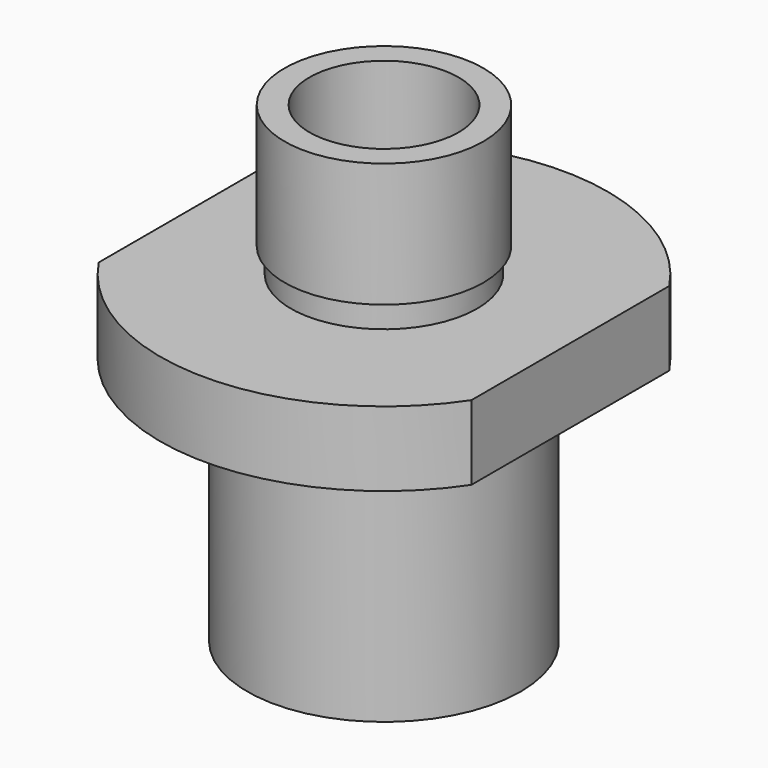
from build123d import *

# Parameters (mm, degrees)
F1_DEPTH  = 6
F2_R      = 14
F2_R_2    = 12
F3_DEPTH  = 1.5
F4_R      = 10.5
F5_DEPTH  = 3
F7_R      = 11
F8_DEPTH  = 17
F10_R     = 7.5
F11_DEPTH = 2
F13_R     = 8
F14_DEPTH = 10
F17_D     = 6.35
F18_R     = 6
F19_DEPTH = 18


with BuildPart() as f1:
    # F0 (on Top) → F1 (new body)
    with BuildSketch(Plane.XY):
        with BuildLine():
            Line((15, -9.949874), (15, 9.949874))
            ThreePointArc((15, 9.949874), (0, 18), (-15, 9.949874))
            Line((-15, 9.949874), (-15, -9.949874))
            ThreePointArc((-15, -9.949874), (0, -18), (15, -9.949874))
        make_face()
    extrude(amount=F1_DEPTH)

    # F2 (on Top) → F3 (cut)
    with BuildSketch(Plane.XY):
        Circle(F2_R)
        Circle(F2_R_2, mode=Mode.SUBTRACT)
    extrude(amount=F3_DEPTH, mode=Mode.SUBTRACT)

    # F4 (on Top) → F5 (join)
    with BuildSketch(Plane.XY):
        Circle(F4_R)
    extrude(amount=-F5_DEPTH)

    # F7 (on offset) → F8 (join)
    with BuildSketch(Plane(origin=(0, 0, -3), x_dir=(1, 0, 0), z_dir=(0, 0, -1))):
        Circle(F7_R)
    extrude(amount=F8_DEPTH)

    # F10 (on offset) → F11 (join)
    with BuildSketch(Plane.XY.offset(6)):
        Circle(F10_R)
    extrude(amount=F11_DEPTH)

    # F13 (on offset) → F14 (join)
    with BuildSketch(Plane.XY.offset(8)):
        Circle(F13_R)
    extrude(amount=F14_DEPTH)

    # F17 (through all)
    with Locations(Plane.XY.offset(18)):
        with Locations((0, 0)):
            Hole(F17_D / 2)

    # F18 (on offset) → F19 (cut)
    with BuildSketch(Plane.XY.offset(18)):
        Circle(F18_R)
    extrude(amount=-F19_DEPTH, mode=Mode.SUBTRACT)


solid = f1.part
